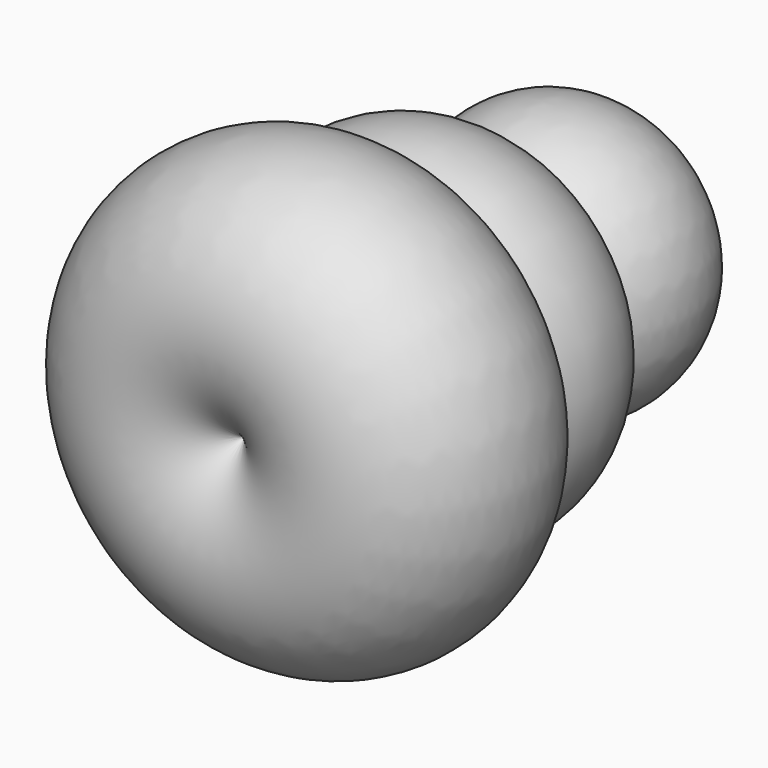
from build123d import *


with BuildPart() as f1:
    # F0 (on Top) → F1 (revolve)
    with BuildSketch(Plane.XY):
        with BuildLine():
            Line((-16.3763165474, 36.2618416548), (-16.3763165474, 46.78947106))
            ThreePointArc((-16.3763165474, 46.78947106), (-23.3610629966, 44.1102984314), (-23.2173783322, 36.6307260071))
            ThreePointArc((-23.2173783322, 36.6307260071), (-19.7490071067, 37.3334959679), (-16.3763165474, 36.2618416548))
        make_face()
        with BuildLine():
            Line((-16.3763165474, 34.156318754), (-16.3763165474, 36.2618416548))
            ThreePointArc((-16.3763165474, 36.2618416548), (-19.7490071067, 37.3334959679), (-23.2173783322, 36.6307260071))
            ThreePointArc((-23.2173783322, 36.6307260071), (-20.1745904439, 34.3491659084), (-16.3763165474, 34.156318754))
        make_face()
        with BuildLine():
            ThreePointArc((-16.3763165474, 34.156318754), (-20.1745904439, 34.3491659084), (-23.2173783322, 36.6307260071))
            ThreePointArc((-23.2173783322, 36.6307260071), (-26.6614581412, 32.939641483), (-26.7532970068, 27.8921315705))
            ThreePointArc((-26.7532970068, 27.8921315705), (-21.2719989881, 29.2508313755), (-16.3763165474, 26.4360513538))
            Line((-16.3763165474, 26.4360513538), (-16.3763165474, 34.156318754))
        make_face()
        with BuildLine():
            ThreePointArc((-16.3763165474, 24.3305265903), (-22.4163351841, 23.6303426462), (-26.7532970068, 27.8921315705))
            ThreePointArc((-26.7532970068, 27.8921315705), (-27.7834621661, 16.5177854417), (-16.3763165474, 17.078159377))
            Line((-16.3763165474, 17.078159377), (-16.3763165474, 24.3305265903))
        make_face()
        with BuildLine():
            ThreePointArc((-16.3763165474, 26.4360513538), (-21.2719989881, 29.2508313755), (-26.7532970068, 27.8921315705))
            ThreePointArc((-26.7532970068, 27.8921315705), (-22.4163351841, 23.6303426462), (-16.3763165474, 24.3305265903))
            Line((-16.3763165474, 24.3305265903), (-16.3763165474, 26.4360513538))
        make_face()
    revolve(axis=Axis((-16.3763165474, 31.9338152185, 0), (0, -1, 0)))


solid = f1.part
